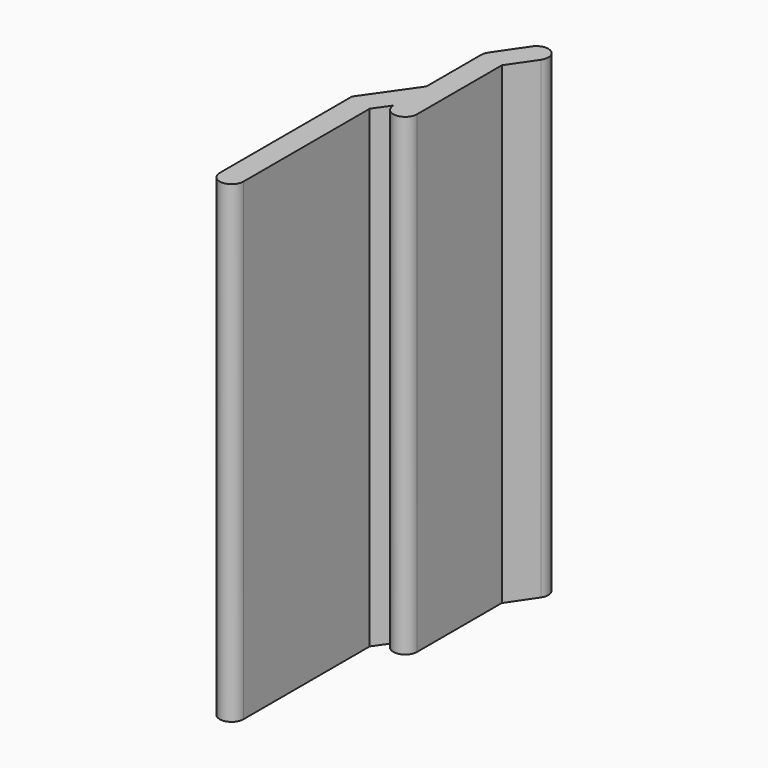
from build123d import *

# Parameters (mm, degrees)
F2_DEPTH = 30
F3_DEPTH = 30


with BuildPart() as f2:
    # F0 (on Top) → F2 (new body)
    with BuildSketch(Plane.XY):
        with BuildLine():
            ThreePointArc((-0.619784, 0.422336), (-0.716707, 0.220977), (-0.75, 0))
            Line((-0.75, 0), (-0.75, -6.95))
            ThreePointArc((-0.75, -6.95), (0, -7.7), (0.75, -6.95))
            Line((0.75, -6.95), (0.75, -0.231242))
            Line((0.75, -0.231242), (1.886792, 1.437017))
            ThreePointArc((1.886792, 1.437017), (1.689343, 2.479137), (0.647223, 2.281688))
            Line((0.647223, 2.281688), (-0.619784, 0.422336))
        make_face()
    extrude(amount=F2_DEPTH)

    # F1 (on Top) → F3 (join, through all)
    with BuildSketch(Plane.XY):
        with BuildLine():
            Line((-1.45, -17.95), (-1.45, -7.95))
            Line((-1.45, -7.95), (-0.75, -6.95))
            Line((-0.75, -6.95), (-0.75, -4.33431))
            Line((-0.75, -4.33431), (-2.95, -7.477167))
            Line((-2.95, -7.477167), (-2.95, -17.95))
            ThreePointArc((-2.95, -17.95), (-2.2, -18.7), (-1.45, -17.95))
        make_face()
    extrude(amount=F3_DEPTH)


solid = f2.part
